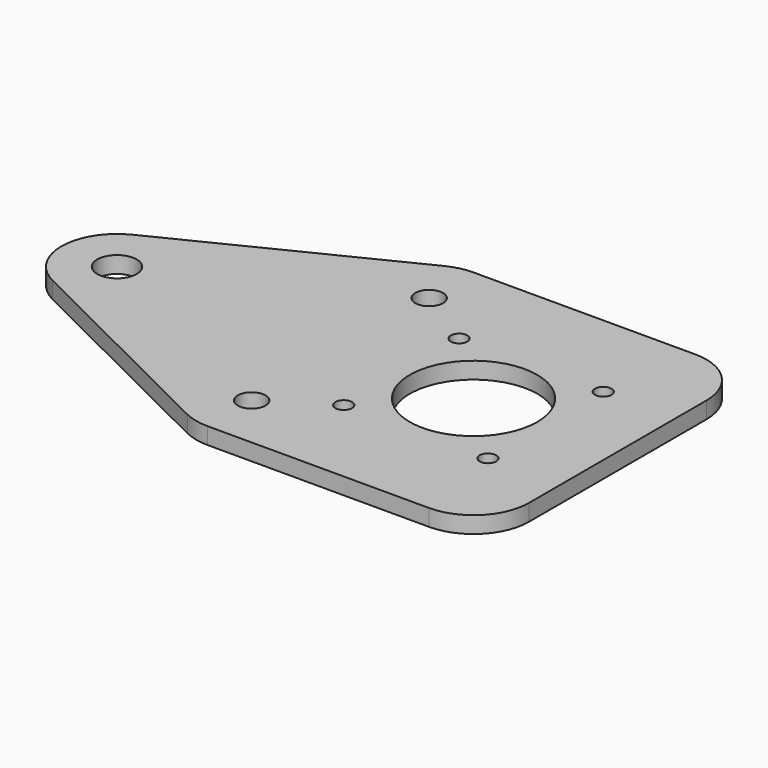
from build123d import *

# Parameters (mm, degrees)
F0_R     = 2.5
F0_R_2   = 1.5
F0_R_3   = 3.56
F0_R_4   = 11.5
F1_DEPTH = 3


with BuildPart() as f1:
    # F0 (on Top) → F1 (new body)
    with BuildSketch(Plane.XY):
        with BuildLine():
            Line((40, 50), (0, 50))
            ThreePointArc((0, 50), (-2.283496, 49.735792), (-4.446329, 48.957129))
            Line((-4.446329, 48.957129), (-44.736329, 28.957129))
            ThreePointArc((-44.736329, 28.957129), (-50.29, 20), (-44.736329, 11.042871))
            Line((-44.736329, 11.042871), (-4.446329, -8.957129))
            ThreePointArc((-4.446329, -8.957129), (-2.283496, -9.735792), (0, -10))
            Line((0, -10), (40, -10))
            ThreePointArc((40, -10), (47.071068, -7.071068), (50, 0))
            Line((50, 0), (50, 40))
            ThreePointArc((50, 40), (47.071068, 47.071068), (40, 50))
        make_face()
        Circle(F0_R, mode=Mode.SUBTRACT)
        with Locations((11, 7)):
            Circle(F0_R_2, mode=Mode.SUBTRACT)
        with Locations((37, 7)):
            Circle(F0_R_2, mode=Mode.SUBTRACT)
        with Locations((-40.29, 20)):
            Circle(F0_R_3, mode=Mode.SUBTRACT)
        with Locations((24, 20)):
            Circle(F0_R_4, mode=Mode.SUBTRACT)
        with Locations((11, 33)):
            Circle(F0_R_2, mode=Mode.SUBTRACT)
        with Locations((37, 33)):
            Circle(F0_R_2, mode=Mode.SUBTRACT)
        with Locations((0, 40)):
            Circle(F0_R, mode=Mode.SUBTRACT)
    extrude(amount=F1_DEPTH)


solid = f1.part
